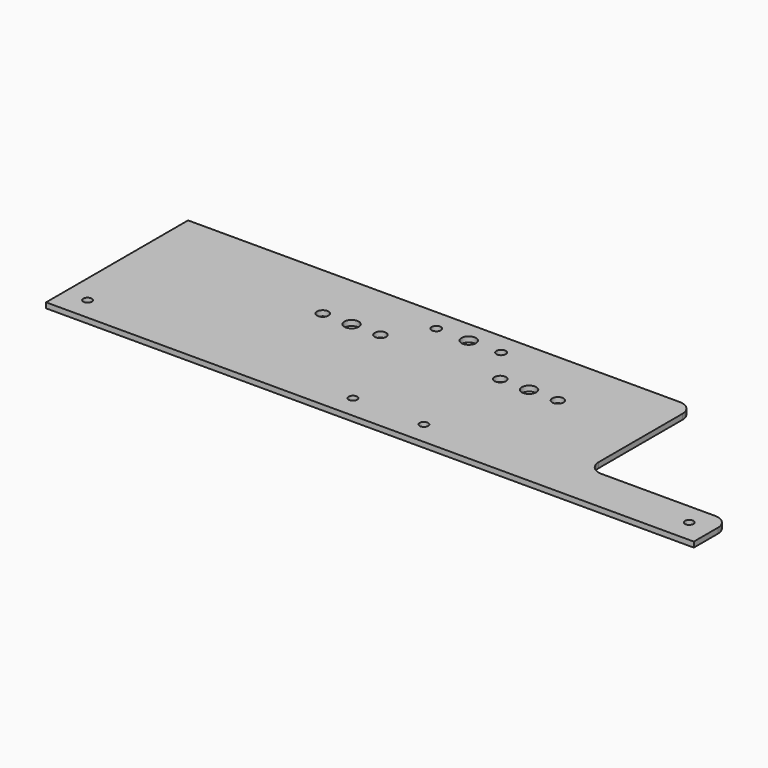
from build123d import *

# Parameters (mm, degrees)
SKETCH_R   = 4.05
SKETCH_R_2 = 2.6
SKETCH_R_3 = 3.2
SKETCH_R_4 = 2.4
PAD_DEPTH  = 3
FILLET_R   = 8


with BuildPart() as part:
    # Sketch → Pad (new body)
    with BuildSketch(Plane.XY):
        Polygon((-182.5, 100), (-182.5, 0), (182.5, 0), (182.5, 25), (102.5, 25), (102.5, 100), align=None)
        with Locations((-14.5, 87.7)):
            Circle(SKETCH_R, mode=Mode.SUBTRACT)
        with Locations((-64.5, 67.7)):
            Circle(SKETCH_R, mode=Mode.SUBTRACT)
        with Locations((35.5, 67.7)):
            Circle(SKETCH_R, mode=Mode.SUBTRACT)
        with Locations((-32.75, 87.7)):
            Circle(SKETCH_R_2, mode=Mode.SUBTRACT)
        with Locations((3.75, 87.7)):
            Circle(SKETCH_R_2, mode=Mode.SUBTRACT)
        with Locations((19.25, 67.7)):
            Circle(SKETCH_R_3, mode=Mode.SUBTRACT)
        with Locations((51.75, 67.7)):
            Circle(SKETCH_R_3, mode=Mode.SUBTRACT)
        with Locations((-80.75, 67.7)):
            Circle(SKETCH_R_3, mode=Mode.SUBTRACT)
        with Locations((-48.25, 67.7)):
            Circle(SKETCH_R_3, mode=Mode.SUBTRACT)
        with Locations((-169.5, 13)):
            Circle(SKETCH_R_4, mode=Mode.SUBTRACT)
        with Locations((169.5, 13)):
            Circle(SKETCH_R_4, mode=Mode.SUBTRACT)
        with Locations((20, 13)):
            Circle(SKETCH_R_4, mode=Mode.SUBTRACT)
        with Locations((-20, 13)):
            Circle(SKETCH_R_4, mode=Mode.SUBTRACT)
    extrude(amount=PAD_DEPTH)

    # Fillet
    fillet_edges = [part.edges().sort_by_distance(p)[0] for p in [
        (102.5, 100, 1.5),
        (102.5, 25, 1.5),
        (182.5, 25, 1.5),
    ]]
    fillet(fillet_edges, radius=FILLET_R)


solid = part.part
